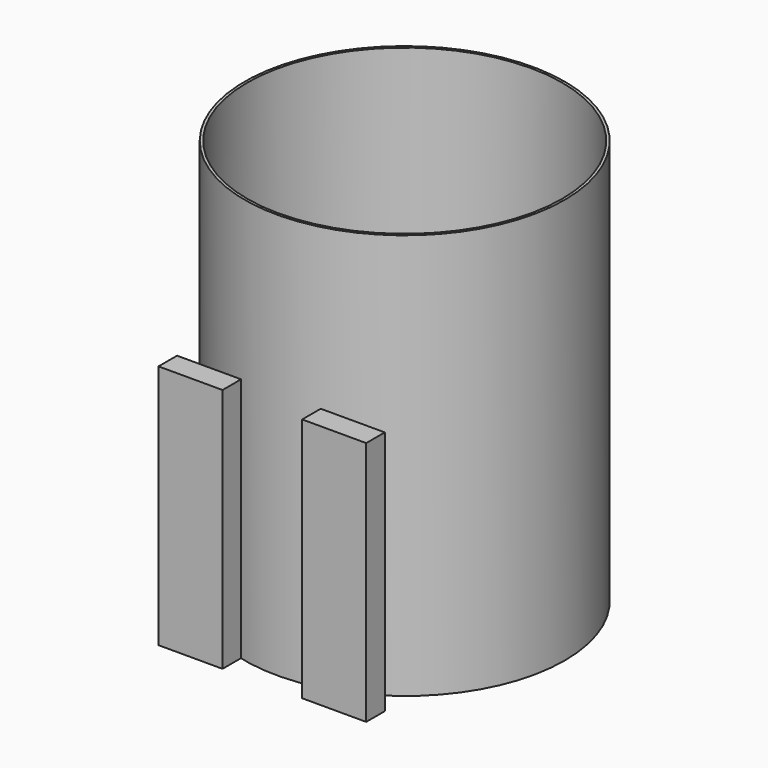
from build123d import *

# Parameters (mm, degrees)
F1_W     = 30
F1_H     = 10.870239
F2_DEPTH = 115
F0_R     = 75
F0_R_2   = 73.75
F3_DEPTH = 190
F4_DEPTH = 6.35
F5_R     = 1.5875
F6_DEPTH = 190.001
F5_R_2   = 10
F7_DEPTH = 5


with BuildPart() as f2:
    # F1 (on face) → F2 (new body)
    with BuildSketch(Plane.XY):
        with Locations((33.659113, -77.935119)):
            Rectangle(F1_W, F1_H)
        with Locations((-33.659113, -77.935119)):
            Rectangle(F1_W, F1_H)
    extrude(amount=F2_DEPTH)


with BuildPart() as f3:
    # F0 (on Top) → F3 (new body)
    with BuildSketch(Plane.XY):
        Circle(F0_R)
        Circle(F0_R_2, mode=Mode.SUBTRACT)
    extrude(amount=F3_DEPTH)

    # F0 (on Top) → F4 (join)
    with BuildSketch(Plane.XY):
        Circle(F0_R_2)
    extrude(amount=F4_DEPTH)

    # F5 (on face) → F6 (cut, through all)
    with BuildSketch(Plane(origin=(0, 0, 0), x_dir=(1, 0, 0), z_dir=(0, 0, -1))):
        Circle(F5_R)
    extrude(amount=-F6_DEPTH, mode=Mode.SUBTRACT)

    # F5 (on face) → F7 (join)
    with BuildSketch(Plane(origin=(0, 0, 0), x_dir=(1, 0, 0), z_dir=(0, 0, -1))):
        with Locations((-32.709863, -18.400237)):
            Circle(F5_R_2)
    extrude(amount=F7_DEPTH)


solid = Compound([f2.part, f3.part])
